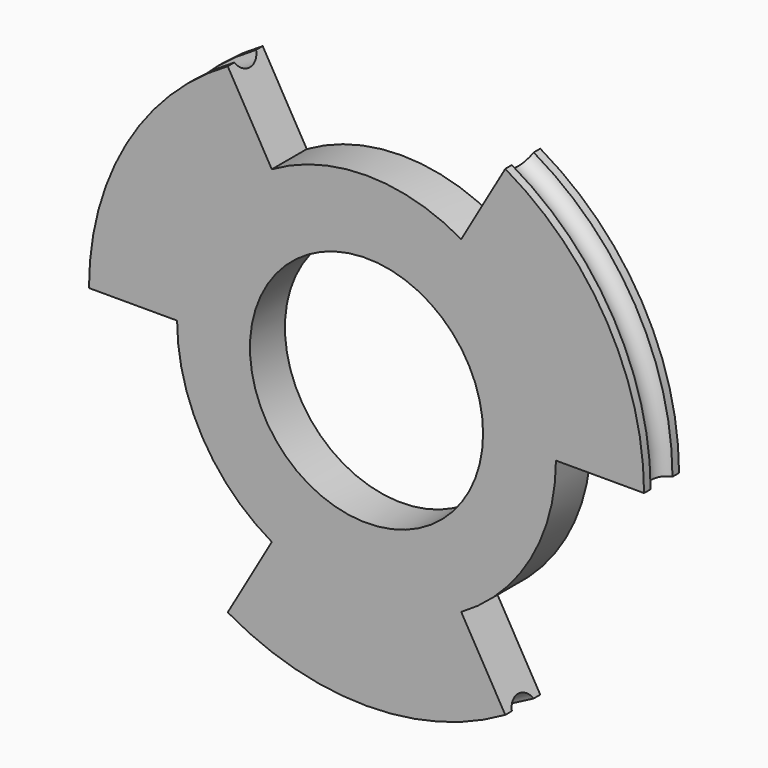
from build123d import *

# Parameters (mm, degrees)
SKETCH005_R          = 9.525
SKETCH005_R_2        = 4
PAD001_DEPTH         = 0.75
POCKET001_DEPTH      = 54.715989
POCKET001_DEPTH_BACK = 54.715989
POLARPATTERN_COUNT   = 3
SKETCH007_R          = 0.5


with BuildPart() as part:
    # Sketch005 → Pad001 (new body, symmetric)
    with BuildSketch(Plane.XZ):
        Circle(SKETCH005_R)
        Circle(SKETCH005_R_2, mode=Mode.SUBTRACT)
    extrude(amount=PAD001_DEPTH, both=True)

    # Sketch006 → Pocket001 (cut, two sides)
    with BuildSketch(Plane.XZ) as pocket001_sk:
        with BuildLine():
            ThreePointArc((3.25, 5.629165), (0, 6.5), (-3.25, 5.629165))
            Line((-4.7625, 8.248892), (-3.25, 5.629165))
            ThreePointArc((4.7625, 8.248892), (0, 9.525), (-4.7625, 8.248892))
            Line((4.7625, 8.248892), (3.25, 5.629165))
        make_face()
    pocket001 = extrude(amount=-POCKET001_DEPTH, mode=Mode.SUBTRACT) + extrude(pocket001_sk.sketch, amount=POCKET001_DEPTH_BACK, mode=Mode.SUBTRACT)

    # PolarPattern: Pocket001 ×3 about axis
    polarpattern_axis = Axis((0, 0, 0), (0, -1, 0))
    for i in range(1, POLARPATTERN_COUNT):
        add(pocket001.rotate(polarpattern_axis, i * 360 / POLARPATTERN_COUNT), mode=Mode.SUBTRACT)

    # Sketch007 → Groove001 (revolve, cut)
    with BuildSketch(Plane.YZ):
        with Locations((0, 9.7)):
            Circle(SKETCH007_R)
    revolve(axis=Axis((0, 0, 0), (0, 1, 0)), mode=Mode.SUBTRACT)


solid = part.part
